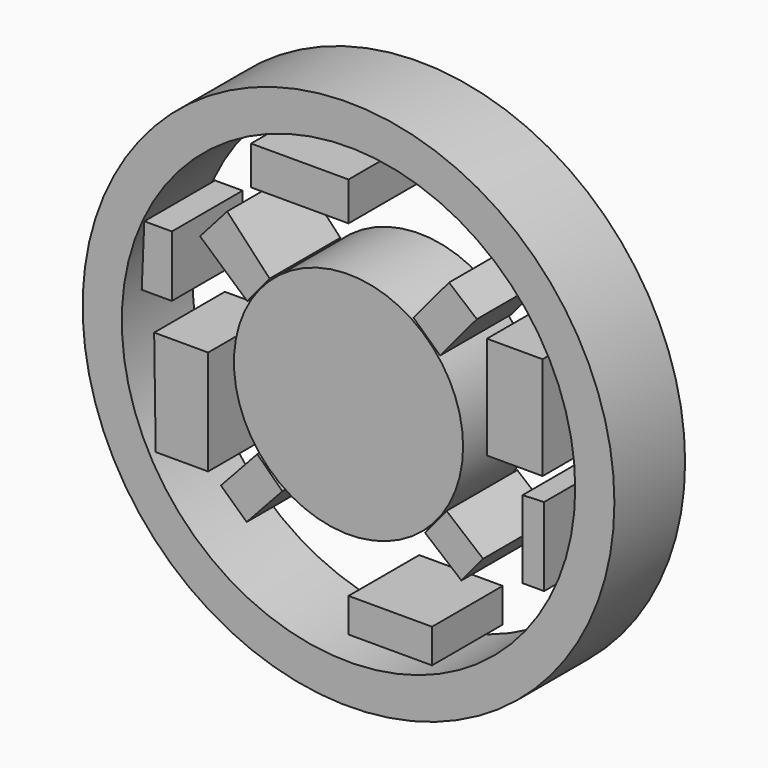
from build123d import *

# Parameters (mm, degrees)
F0_R      = 76.407624
F0_R_2    = 65.154471
F1_DEPTH  = 25.4
F2_R      = 32.928031
F3_DEPTH  = 25.4
F4_W      = 16.001161
F4_H      = 29.557686
F5_DEPTH  = 25.4
F6_DEPTH  = 25.4
F7_W      = 28.00202
F7_H      = 11.111911
F8_DEPTH  = 25.4
F9_W      = 24.001732
F9_H      = 9.778481
F10_DEPTH = 25.4
F12_DEPTH = 25.4
F14_DEPTH = 25.4
F16_DEPTH = 25.4
F18_DEPTH = 25.4
F20_DEPTH = 25.4
F22_DEPTH = 25.4


with BuildPart() as f1:
    # F0 (on Front) → F1 (new body)
    with BuildSketch(Plane.XZ):
        Circle(F0_R)
        Circle(F0_R_2, mode=Mode.SUBTRACT)
    extrude(amount=-F1_DEPTH)


with BuildPart() as f3:
    # F2 (on Front) → F3 (new body)
    with BuildSketch(Plane.XZ):
        Circle(F2_R)
    extrude(amount=-F3_DEPTH)


with BuildPart() as f5:
    # F4 (on Front) → F5 (new body)
    with BuildSketch(Plane.XZ):
        Polygon((-40.337451, 0), (-55.851858, 0), (-55.408586, -30.090079), (-40.337451, -30.090079), align=None)
        with Locations((47.781223, 14.778843)):
            Rectangle(F4_W, F4_H)
    extrude(amount=-F5_DEPTH)


with BuildPart() as f6:
    # F4 (on Front) → F6 (new body)
    with BuildSketch(Plane.XZ):
        Polygon((-40.337451, 0), (-55.851858, 0), (-55.408586, -30.090079), (-40.337451, -30.090079), align=None)
        with Locations((47.781223, 14.778843)):
            Rectangle(F4_W, F4_H)
    extrude(amount=-F6_DEPTH)


with BuildPart() as f8:
    # F7 (on Front) → F8 (new body)
    with BuildSketch(Plane.XZ):
        with Locations((-14.00101, 51.337035)):
            Rectangle(F7_W, F7_H)
    extrude(amount=-F8_DEPTH)


with BuildPart() as f10:
    # F9 (on Front) → F10 (new body)
    with BuildSketch(Plane.XZ):
        with Locations((12.000866, -53.33718)):
            Rectangle(F9_W, F9_H)
    extrude(amount=-F10_DEPTH)


with BuildPart() as f12:
    # F11 (on Front) → F12 (new body)
    with BuildSketch(Plane.XZ):
        Polygon((-42.669743, 28.668735), (-29.113211, 16.667869), (-22.668302, 24.446206), (-34.878311, 37.470166), align=None)
    extrude(amount=-F12_DEPTH)


with BuildPart() as f14:
    # F13 (on Front) → F14 (new body)
    with BuildSketch(Plane.XZ):
        Polygon((28.890973, 40.225122), (18.668015, 28.002018), (26.320599, 20.918797), (36.879617, 33.543711), align=None)
    extrude(amount=-F14_DEPTH)


with BuildPart() as f16:
    # F15 (on Front) → F16 (new body)
    with BuildSketch(Plane.XZ):
        Polygon((28.183266, -17.782873), (22.001585, -25.335159), (32.446783, -34.002449), (38.678867, -26.491987), align=None)
    extrude(amount=-F16_DEPTH)


with BuildPart() as f18:
    # F17 (on Front) → F18 (new body)
    with BuildSketch(Plane.XZ):
        Polygon((-19.017636, -28.159155), (-26.224114, -21.112634), (-36.66931, -32.446787), (-29.260877, -39.274164), align=None)
    extrude(amount=-F18_DEPTH)


with BuildPart() as f20:
    # F19 (on Front) → F20 (new body)
    with BuildSketch(Plane.XZ):
        Polygon((-58.685303, 27.237905), (-59.428155, 9.657076), (-50.761547, 9.657076), (-50.761547, 27.237905), align=None)
    extrude(amount=-F20_DEPTH)


with BuildPart() as f22:
    # F21 (on Front) → F22 (new body)
    with BuildSketch(Plane.XZ):
        Polygon((56.209128, -6.43805), (50.018694, -6.685668), (50.018694, -28.971225), (56.209128, -28.971225), align=None)
    extrude(amount=-F22_DEPTH)


solid = Compound([f1.part, f3.part, f5.part, f6.part, f8.part, f10.part, f12.part, f14.part, f16.part, f18.part, f20.part, f22.part])
